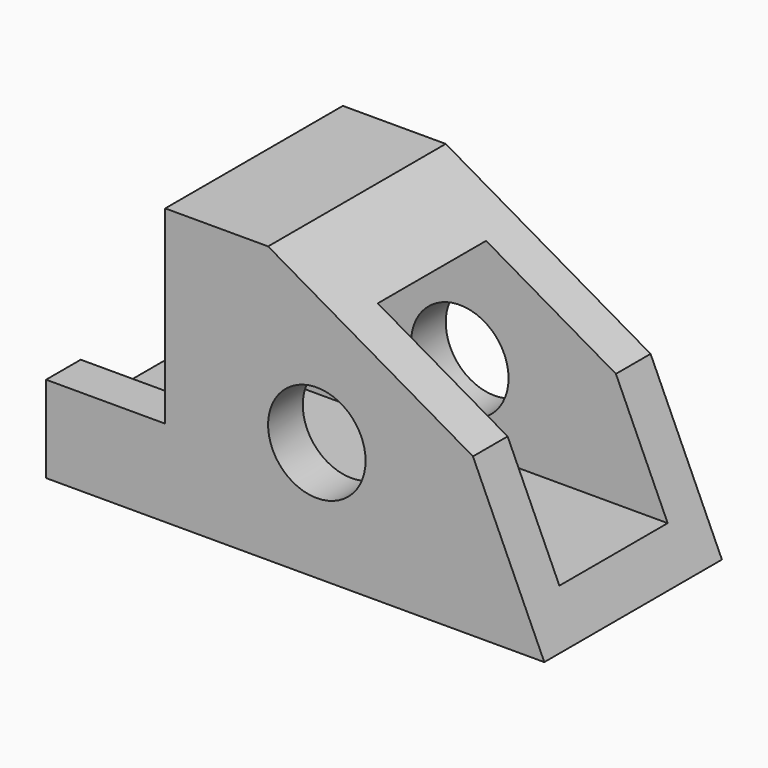
from build123d import *

# Parameters (mm, degrees)
F0_W          = 92
F0_H          = 51
F1_DEPTH      = 41
F2_W          = 22
F2_H          = 35
F3_DEPTH      = 41.001
F5_DEPTH      = 41.001
F6_R          = 9
F7_DEPTH      = 41.001
F8_W          = 25
F8_H          = 35
F9_DEPTH      = 70.001
F9_DEPTH_BACK = 25.4


with BuildPart() as f1:
    # F0 (on Front) → F1 (new body)
    with BuildSketch(Plane.XZ):
        with Locations((46, 25.5)):
            Rectangle(F0_W, F0_H)
    extrude(amount=F1_DEPTH)

    # F2 (on face) → F3 (cut, through all)
    with BuildSketch(Plane.XZ.offset(41)):
        with Locations((11, 33.5)):
            Rectangle(F2_W, F2_H)
    extrude(amount=-F3_DEPTH, mode=Mode.SUBTRACT)

    # F4 (on face) → F5 (cut, through all)
    with BuildSketch(Plane.XZ.offset(41)):
        Polygon((92, 51), (41, 51), (78.8247816226, 29.1618521481), (92, 0), align=None)
    extrude(amount=-F5_DEPTH, mode=Mode.SUBTRACT)

    # F6 (on face) → F7 (cut, through all)
    with BuildSketch(Plane.XZ.offset(41)):
        with Locations((50, 22)):
            Circle(F6_R)
    extrude(amount=-F7_DEPTH, mode=Mode.SUBTRACT)

    # F8 (on face) → F9 (cut, two sides)
    with BuildSketch(Plane(origin=(22, 0, 0), x_dir=(0, -1, 0), z_dir=(-1, 0, 0))) as f9_sk:
        with Locations((20.5, 25.5)):
            Rectangle(F8_W, F8_H)
    extrude(amount=-F9_DEPTH, mode=Mode.SUBTRACT)
    extrude(f9_sk.sketch, amount=F9_DEPTH_BACK, mode=Mode.SUBTRACT)


solid = f1.part
